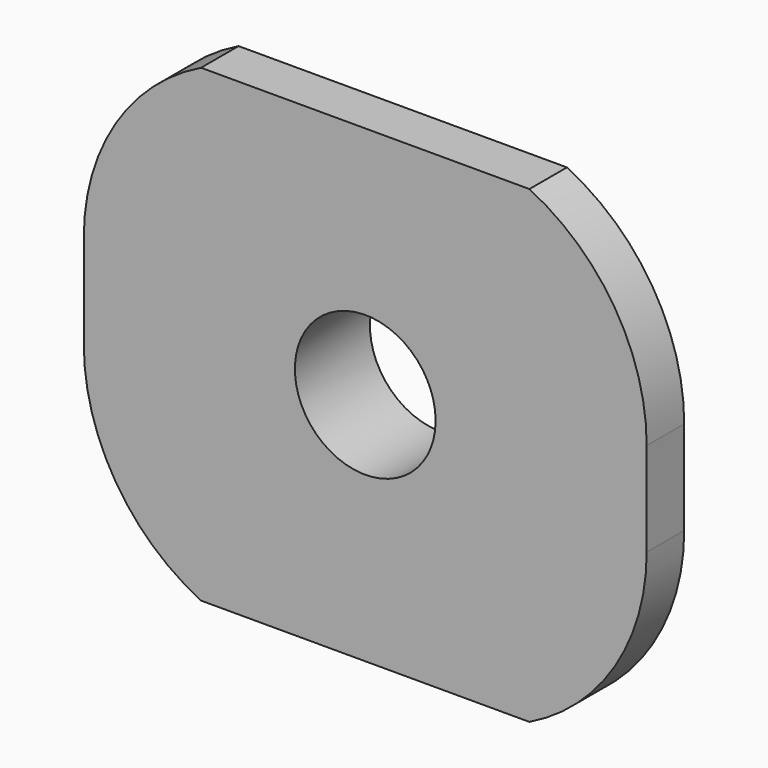
from build123d import *

# Parameters (mm, degrees)
PAD001_DEPTH    = 1
SKETCH004_R     = 2.5
PAD002_DEPTH    = 1
SKETCH005_R     = 1.5
POCKET002_DEPTH = 2.001


with BuildPart() as part:
    # Sketch003 → Pad001 (new body)
    with BuildSketch(Plane.XZ):
        with BuildLine():
            Line((-3.5, 5), (3.5, 5))
            ThreePointArc((6, 1), (5.323593, 3.358495), (3.5, 5))
            Line((6, 1), (6, -1))
            ThreePointArc((3.5, -5), (5.323593, -3.358495), (6, -1))
            Line((3.5, -5), (-3.5, -5))
            ThreePointArc((-6, -1), (-5.323593, -3.358495), (-3.5, -5))
            Line((-6, -1), (-6, 1))
            ThreePointArc((-3.5, 5), (-5.323593, 3.358495), (-6, 1))
        make_face()
    extrude(amount=-PAD001_DEPTH)

    # Sketch004 (on Face10 of Pad001) → Pad002 (join)
    with BuildSketch(Plane(origin=(0, 1, 0), x_dir=(1, 0, 0), z_dir=(0, 1, 0))):
        Circle(SKETCH004_R)
    extrude(amount=PAD002_DEPTH)

    # Sketch005 (on Face12 of Pad002) → Pocket002 (cut, through all)
    with BuildSketch(Plane(origin=(0, 2, 0), x_dir=(1, 0, 0), z_dir=(0, 1, 0))):
        Circle(SKETCH005_R)
    extrude(amount=-POCKET002_DEPTH, mode=Mode.SUBTRACT)


solid = part.part
